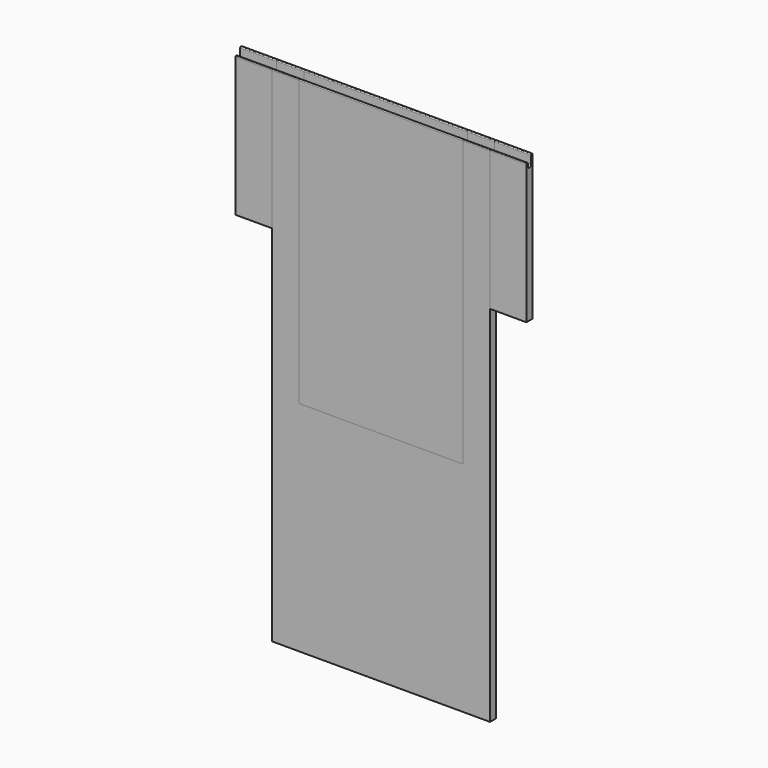
from build123d import *

# Parameters (mm, degrees)
F0_W      = 21
F0_H      = 100
F0_H_2    = 200
F1_DEPTH  = 100
F2_DEPTH  = 125
F3_DEPTH  = 200
F4_DEPTH  = 300
F5_DEPTH  = 200
F6_DEPTH  = 400
F7_DEPTH  = 400
F8_DEPTH  = 400
F9_DEPTH  = 200
F10_DEPTH = 300
F11_DEPTH = 200
F0_H_3    = 600
F12_DEPTH = 300
F13_DEPTH = 225


with BuildPart() as f1:
    # F0 (on Right) → F1 (new body, symmetric)
    with BuildSketch(Plane.YZ):
        with BuildLine():
            ThreePointArc((8, 407.5), (6.232233047, 406.767766953), (5.5, 405))
            Line((5.5, 405), (5.5, 383))
            ThreePointArc((5.5, 383), (3.8890872965, 379.1109127035), (0, 377.5))
            ThreePointArc((0, 377.5), (-3.8890872965, 379.1109127035), (-5.5, 383))
            Line((-5.5, 383), (-5.5, 390))
            ThreePointArc((-5.5, 390), (-6.232233047, 391.767766953), (-8, 392.5))
            ThreePointArc((-8, 392.5), (-9.767766953, 391.767766953), (-10.5, 390))
            Line((-10.5, 390), (-10.5, 307.5))
            Line((-10.5, 307.5), (10.5, 307.5))
            Line((10.5, 307.5), (10.5, 407.5))
            Line((10.5, 407.5), (8, 407.5))
        make_face()
        with Locations((0, 257.5)):
            Rectangle(F0_W, F0_H)
        with Locations((0, 107.5)):
            Rectangle(F0_W, F0_H_2)
        with Locations((0, -92.5)):
            Rectangle(F0_W, F0_H_2)
        with Locations((0, -292.5)):
            Rectangle(F0_W, F0_H_2)
    extrude(amount=F1_DEPTH, both=True)


with BuildPart() as f2:
    # F0 (on Right) → F2 (new body, symmetric)
    with BuildSketch(Plane.YZ):
        with Locations((0, -292.5)):
            Rectangle(F0_W, F0_H_2)
        with Locations((0, -92.5)):
            Rectangle(F0_W, F0_H_2)
        with Locations((0, 107.5)):
            Rectangle(F0_W, F0_H_2)
        with Locations((0, 257.5)):
            Rectangle(F0_W, F0_H)
        with BuildLine():
            ThreePointArc((8, 407.5), (6.232233047, 406.767766953), (5.5, 405))
            Line((5.5, 405), (5.5, 383))
            ThreePointArc((5.5, 383), (3.8890872965, 379.1109127035), (0, 377.5))
            ThreePointArc((0, 377.5), (-3.8890872965, 379.1109127035), (-5.5, 383))
            Line((-5.5, 383), (-5.5, 390))
            ThreePointArc((-5.5, 390), (-6.232233047, 391.767766953), (-8, 392.5))
            ThreePointArc((-8, 392.5), (-9.767766953, 391.767766953), (-10.5, 390))
            Line((-10.5, 390), (-10.5, 307.5))
            Line((-10.5, 307.5), (10.5, 307.5))
            Line((10.5, 307.5), (10.5, 407.5))
            Line((10.5, 407.5), (8, 407.5))
        make_face()
    extrude(amount=F2_DEPTH, both=True)


with BuildPart() as f3:
    # F0 (on Right) → F3 (new body, symmetric)
    with BuildSketch(Plane.YZ):
        with Locations((0, -292.5)):
            Rectangle(F0_W, F0_H_2)
        with Locations((0, -92.5)):
            Rectangle(F0_W, F0_H_2)
        with Locations((0, 107.5)):
            Rectangle(F0_W, F0_H_2)
        with Locations((0, 257.5)):
            Rectangle(F0_W, F0_H)
        with BuildLine():
            ThreePointArc((8, 407.5), (6.232233047, 406.767766953), (5.5, 405))
            Line((5.5, 405), (5.5, 383))
            ThreePointArc((5.5, 383), (3.8890872965, 379.1109127035), (0, 377.5))
            ThreePointArc((0, 377.5), (-3.8890872965, 379.1109127035), (-5.5, 383))
            Line((-5.5, 383), (-5.5, 390))
            ThreePointArc((-5.5, 390), (-6.232233047, 391.767766953), (-8, 392.5))
            ThreePointArc((-8, 392.5), (-9.767766953, 391.767766953), (-10.5, 390))
            Line((-10.5, 390), (-10.5, 307.5))
            Line((-10.5, 307.5), (10.5, 307.5))
            Line((10.5, 307.5), (10.5, 407.5))
            Line((10.5, 407.5), (8, 407.5))
        make_face()
    extrude(amount=F3_DEPTH, both=True)


with BuildPart() as f4:
    # F0 (on Right) → F4 (new body, symmetric)
    with BuildSketch(Plane.YZ):
        with BuildLine():
            ThreePointArc((8, 407.5), (6.232233047, 406.767766953), (5.5, 405))
            Line((5.5, 405), (5.5, 383))
            ThreePointArc((5.5, 383), (3.8890872965, 379.1109127035), (0, 377.5))
            ThreePointArc((0, 377.5), (-3.8890872965, 379.1109127035), (-5.5, 383))
            Line((-5.5, 383), (-5.5, 390))
            ThreePointArc((-5.5, 390), (-6.232233047, 391.767766953), (-8, 392.5))
            ThreePointArc((-8, 392.5), (-9.767766953, 391.767766953), (-10.5, 390))
            Line((-10.5, 390), (-10.5, 307.5))
            Line((-10.5, 307.5), (10.5, 307.5))
            Line((10.5, 307.5), (10.5, 407.5))
            Line((10.5, 407.5), (8, 407.5))
        make_face()
        with Locations((0, 257.5)):
            Rectangle(F0_W, F0_H)
        with Locations((0, 107.5)):
            Rectangle(F0_W, F0_H_2)
        with Locations((0, -92.5)):
            Rectangle(F0_W, F0_H_2)
        with Locations((0, -292.5)):
            Rectangle(F0_W, F0_H_2)
    extrude(amount=F4_DEPTH, both=True)


with BuildPart() as f5:
    # F0 (on Right) → F5 (new body, symmetric)
    with BuildSketch(Plane.YZ):
        with BuildLine():
            ThreePointArc((8, 407.5), (6.232233047, 406.767766953), (5.5, 405))
            Line((5.5, 405), (5.5, 383))
            ThreePointArc((5.5, 383), (3.8890872965, 379.1109127035), (0, 377.5))
            ThreePointArc((0, 377.5), (-3.8890872965, 379.1109127035), (-5.5, 383))
            Line((-5.5, 383), (-5.5, 390))
            ThreePointArc((-5.5, 390), (-6.232233047, 391.767766953), (-8, 392.5))
            ThreePointArc((-8, 392.5), (-9.767766953, 391.767766953), (-10.5, 390))
            Line((-10.5, 390), (-10.5, 307.5))
            Line((-10.5, 307.5), (10.5, 307.5))
            Line((10.5, 307.5), (10.5, 407.5))
            Line((10.5, 407.5), (8, 407.5))
        make_face()
        with Locations((0, 257.5)):
            Rectangle(F0_W, F0_H)
    extrude(amount=F5_DEPTH, both=True)


with BuildPart() as f6:
    # F0 (on Right) → F6 (new body, symmetric)
    with BuildSketch(Plane.YZ):
        with BuildLine():
            ThreePointArc((8, 407.5), (6.232233047, 406.767766953), (5.5, 405))
            Line((5.5, 405), (5.5, 383))
            ThreePointArc((5.5, 383), (3.8890872965, 379.1109127035), (0, 377.5))
            ThreePointArc((0, 377.5), (-3.8890872965, 379.1109127035), (-5.5, 383))
            Line((-5.5, 383), (-5.5, 390))
            ThreePointArc((-5.5, 390), (-6.232233047, 391.767766953), (-8, 392.5))
            ThreePointArc((-8, 392.5), (-9.767766953, 391.767766953), (-10.5, 390))
            Line((-10.5, 390), (-10.5, 307.5))
            Line((-10.5, 307.5), (10.5, 307.5))
            Line((10.5, 307.5), (10.5, 407.5))
            Line((10.5, 407.5), (8, 407.5))
        make_face()
    extrude(amount=F6_DEPTH, both=True)


with BuildPart() as f7:
    # F0 (on Right) → F7 (new body, symmetric)
    with BuildSketch(Plane.YZ):
        with BuildLine():
            ThreePointArc((8, 407.5), (6.232233047, 406.767766953), (5.5, 405))
            Line((5.5, 405), (5.5, 383))
            ThreePointArc((5.5, 383), (3.8890872965, 379.1109127035), (0, 377.5))
            ThreePointArc((0, 377.5), (-3.8890872965, 379.1109127035), (-5.5, 383))
            Line((-5.5, 383), (-5.5, 390))
            ThreePointArc((-5.5, 390), (-6.232233047, 391.767766953), (-8, 392.5))
            ThreePointArc((-8, 392.5), (-9.767766953, 391.767766953), (-10.5, 390))
            Line((-10.5, 390), (-10.5, 307.5))
            Line((-10.5, 307.5), (10.5, 307.5))
            Line((10.5, 307.5), (10.5, 407.5))
            Line((10.5, 407.5), (8, 407.5))
        make_face()
        with Locations((0, 257.5)):
            Rectangle(F0_W, F0_H)
    extrude(amount=F7_DEPTH, both=True)


with BuildPart() as f8:
    # F0 (on Right) → F8 (new body, symmetric)
    with BuildSketch(Plane.YZ):
        with Locations((0, 107.5)):
            Rectangle(F0_W, F0_H_2)
        with Locations((0, 257.5)):
            Rectangle(F0_W, F0_H)
        with BuildLine():
            ThreePointArc((8, 407.5), (6.232233047, 406.767766953), (5.5, 405))
            Line((5.5, 405), (5.5, 383))
            ThreePointArc((5.5, 383), (3.8890872965, 379.1109127035), (0, 377.5))
            ThreePointArc((0, 377.5), (-3.8890872965, 379.1109127035), (-5.5, 383))
            Line((-5.5, 383), (-5.5, 390))
            ThreePointArc((-5.5, 390), (-6.232233047, 391.767766953), (-8, 392.5))
            ThreePointArc((-8, 392.5), (-9.767766953, 391.767766953), (-10.5, 390))
            Line((-10.5, 390), (-10.5, 307.5))
            Line((-10.5, 307.5), (10.5, 307.5))
            Line((10.5, 307.5), (10.5, 407.5))
            Line((10.5, 407.5), (8, 407.5))
        make_face()
    extrude(amount=F8_DEPTH, both=True)


with BuildPart() as f9:
    # F0 (on Right) → F9 (new body, symmetric)
    with BuildSketch(Plane.YZ):
        with BuildLine():
            ThreePointArc((8, 407.5), (6.232233047, 406.767766953), (5.5, 405))
            Line((5.5, 405), (5.5, 383))
            ThreePointArc((5.5, 383), (3.8890872965, 379.1109127035), (0, 377.5))
            ThreePointArc((0, 377.5), (-3.8890872965, 379.1109127035), (-5.5, 383))
            Line((-5.5, 383), (-5.5, 390))
            ThreePointArc((-5.5, 390), (-6.232233047, 391.767766953), (-8, 392.5))
            ThreePointArc((-8, 392.5), (-9.767766953, 391.767766953), (-10.5, 390))
            Line((-10.5, 390), (-10.5, 307.5))
            Line((-10.5, 307.5), (10.5, 307.5))
            Line((10.5, 307.5), (10.5, 407.5))
            Line((10.5, 407.5), (8, 407.5))
        make_face()
        with Locations((0, 257.5)):
            Rectangle(F0_W, F0_H)
        with Locations((0, 107.5)):
            Rectangle(F0_W, F0_H_2)
    extrude(amount=F9_DEPTH, both=True)


with BuildPart() as f10:
    # F0 (on Right) → F10 (new body, symmetric)
    with BuildSketch(Plane.YZ):
        with BuildLine():
            ThreePointArc((8, 407.5), (6.232233047, 406.767766953), (5.5, 405))
            Line((5.5, 405), (5.5, 383))
            ThreePointArc((5.5, 383), (3.8890872965, 379.1109127035), (0, 377.5))
            ThreePointArc((0, 377.5), (-3.8890872965, 379.1109127035), (-5.5, 383))
            Line((-5.5, 383), (-5.5, 390))
            ThreePointArc((-5.5, 390), (-6.232233047, 391.767766953), (-8, 392.5))
            ThreePointArc((-8, 392.5), (-9.767766953, 391.767766953), (-10.5, 390))
            Line((-10.5, 390), (-10.5, 307.5))
            Line((-10.5, 307.5), (10.5, 307.5))
            Line((10.5, 307.5), (10.5, 407.5))
            Line((10.5, 407.5), (8, 407.5))
        make_face()
        with Locations((0, 257.5)):
            Rectangle(F0_W, F0_H)
        with Locations((0, 107.5)):
            Rectangle(F0_W, F0_H_2)
    extrude(amount=F10_DEPTH, both=True)


with BuildPart() as f11:
    # F0 (on Right) → F11 (new body, symmetric)
    with BuildSketch(Plane.YZ):
        with BuildLine():
            ThreePointArc((8, 407.5), (6.232233047, 406.767766953), (5.5, 405))
            Line((5.5, 405), (5.5, 383))
            ThreePointArc((5.5, 383), (3.8890872965, 379.1109127035), (0, 377.5))
            ThreePointArc((0, 377.5), (-3.8890872965, 379.1109127035), (-5.5, 383))
            Line((-5.5, 383), (-5.5, 390))
            ThreePointArc((-5.5, 390), (-6.232233047, 391.767766953), (-8, 392.5))
            ThreePointArc((-8, 392.5), (-9.767766953, 391.767766953), (-10.5, 390))
            Line((-10.5, 390), (-10.5, 307.5))
            Line((-10.5, 307.5), (10.5, 307.5))
            Line((10.5, 307.5), (10.5, 407.5))
            Line((10.5, 407.5), (8, 407.5))
        make_face()
        with Locations((0, 257.5)):
            Rectangle(F0_W, F0_H)
        with Locations((0, 107.5)):
            Rectangle(F0_W, F0_H_2)
        with Locations((0, -92.5)):
            Rectangle(F0_W, F0_H_2)
    extrude(amount=F11_DEPTH, both=True)


with BuildPart() as f12:
    # F0 (on Right) → F12 (new body, symmetric)
    with BuildSketch(Plane.YZ):
        with Locations((0, -692.5)):
            Rectangle(F0_W, F0_H_3)
        with Locations((0, -292.5)):
            Rectangle(F0_W, F0_H_2)
        with Locations((0, -92.5)):
            Rectangle(F0_W, F0_H_2)
        with Locations((0, 107.5)):
            Rectangle(F0_W, F0_H_2)
        with Locations((0, 257.5)):
            Rectangle(F0_W, F0_H)
        with BuildLine():
            ThreePointArc((8, 407.5), (6.232233047, 406.767766953), (5.5, 405))
            Line((5.5, 405), (5.5, 383))
            ThreePointArc((5.5, 383), (3.8890872965, 379.1109127035), (0, 377.5))
            ThreePointArc((0, 377.5), (-3.8890872965, 379.1109127035), (-5.5, 383))
            Line((-5.5, 383), (-5.5, 390))
            ThreePointArc((-5.5, 390), (-6.232233047, 391.767766953), (-8, 392.5))
            ThreePointArc((-8, 392.5), (-9.767766953, 391.767766953), (-10.5, 390))
            Line((-10.5, 390), (-10.5, 307.5))
            Line((-10.5, 307.5), (10.5, 307.5))
            Line((10.5, 307.5), (10.5, 407.5))
            Line((10.5, 407.5), (8, 407.5))
        make_face()
    extrude(amount=F12_DEPTH, both=True)


with BuildPart() as f13:
    # F0 (on Right) → F13 (new body, symmetric)
    with BuildSketch(Plane.YZ):
        with BuildLine():
            ThreePointArc((8, 407.5), (6.232233047, 406.767766953), (5.5, 405))
            Line((5.5, 405), (5.5, 383))
            ThreePointArc((5.5, 383), (3.8890872965, 379.1109127035), (0, 377.5))
            ThreePointArc((0, 377.5), (-3.8890872965, 379.1109127035), (-5.5, 383))
            Line((-5.5, 383), (-5.5, 390))
            ThreePointArc((-5.5, 390), (-6.232233047, 391.767766953), (-8, 392.5))
            ThreePointArc((-8, 392.5), (-9.767766953, 391.767766953), (-10.5, 390))
            Line((-10.5, 390), (-10.5, 307.5))
            Line((-10.5, 307.5), (10.5, 307.5))
            Line((10.5, 307.5), (10.5, 407.5))
            Line((10.5, 407.5), (8, 407.5))
        make_face()
        with Locations((0, 257.5)):
            Rectangle(F0_W, F0_H)
        with Locations((0, 107.5)):
            Rectangle(F0_W, F0_H_2)
        with Locations((0, -92.5)):
            Rectangle(F0_W, F0_H_2)
        with Locations((0, -292.5)):
            Rectangle(F0_W, F0_H_2)
    extrude(amount=F13_DEPTH, both=True)


solid = Compound([f1.part, f2.part, f3.part, f4.part, f5.part, f6.part, f7.part, f8.part, f9.part, f10.part, f11.part, f12.part, f13.part])
